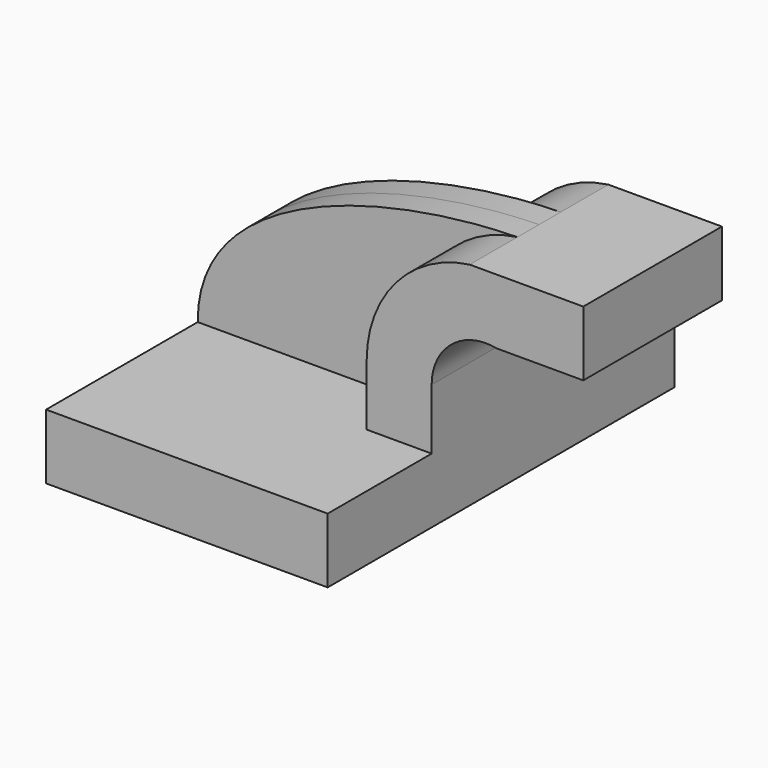
from build123d import *

# Parameters (mm, degrees)
F1_DEPTH = 63.5
F0_W     = 25.4
F0_H     = 19.05
F2_DEPTH = 25.4
F3_DEPTH = 7.9375


with BuildPart() as f1:
    # F0 (on Front) → F1 (new body, symmetric)
    with BuildSketch(Plane.XZ):
        Polygon((41.275, -9.525), (41.275, 9.525), (22.225, 9.525), (-41.275, 9.525), (-41.275, -9.525), align=None)
    extrude(amount=F1_DEPTH, both=True)

    # F0 (on Front) → F2 (join, symmetric)
    with BuildSketch(Plane.XZ):
        with BuildLine():
            Line((22.225, 9.525), (41.275, 9.525))
            Line((41.275, 9.525), (41.275, 27.32094))
            ThreePointArc((41.275, 27.32094), (47.109768, 39.617662), (60.325, 42.8752))
            Line((60.325, 42.8752), (60.325, 61.9252))
            Line((60.325, 61.9252), (52.427625, 61.9252))
            ThreePointArc((52.427625, 61.9252), (30.837602, 50.286422), (22.225, 27.32094))
            Line((22.225, 27.32094), (22.225, 9.525))
        make_face()
        with Locations((73.025, 52.4002)):
            Rectangle(F0_W, F0_H)
    extrude(amount=F2_DEPTH, both=True)

    # F0 (on Front) → F3 (join, symmetric)
    with BuildSketch(Plane.XZ):
        with BuildLine():
            Line((-41.275, 9.525), (22.225, 9.525))
            Line((22.225, 9.525), (22.225, 27.32094))
            ThreePointArc((22.225, 27.32094), (30.837602, 50.286422), (52.427625, 61.9252))
            add(Edge.make_bspline(
                [(-41.275, 9.525), (-41.49317, 47.016986), (14.679759, 61.308946), (52.427625, 61.9252)],
                knots=[0, 0, 0, 0, 107.359037, 107.359037, 107.359037, 107.359037], degree=3))
        make_face()
    extrude(amount=F3_DEPTH, both=True)


solid = f1.part
